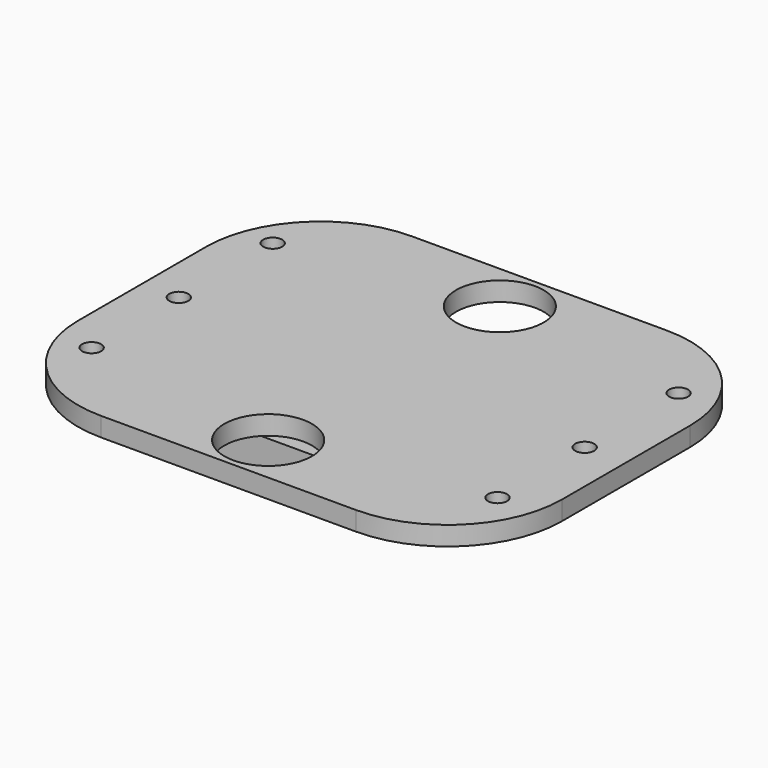
from build123d import *

# Parameters (mm, degrees)
F0_W     = 12.7
F0_H     = 10.2
F0_W_2   = 5
F0_H_2   = 6
F1_DEPTH = 0.5
F2_DEPTH = 1
F3_D     = 0.5
F4_D     = 2.3
F5_R     = 3


with BuildPart() as f1:
    # F0 (on Top) → F1 (new body)
    with BuildSketch(Plane.XY):
        with Locations((6.35, 5.1)):
            Rectangle(F0_W, F0_H)
        with Locations((6.2, 5.1)):
            Rectangle(F0_W_2, F0_H_2, mode=Mode.SUBTRACT)
        with Locations((6.2, 5.1)):
            Rectangle(F0_W_2, F0_H_2)
    extrude(amount=F1_DEPTH)

    # F3 (through all)
    with Locations(Plane(origin=(0, 0, 0), x_dir=(1, 0, 0), z_dir=(0, 0, -1))):
        with Locations((11.6159860045, -2.2403197363), (11.6159860045, -5.1), (11.6159860045, -8.1800576299), (0.9654218447, -8.1800576299), (0.9654218447, -5.1), (0.9654218447, -2.2403197363)):
            Hole(F3_D / 2)

    # F4 (through all)
    with Locations(Plane(origin=(0, 0, 0), x_dir=(1, 0, 0), z_dir=(0, 0, -1))):
        with Locations((6.35, -1.3), (6.35, -8.9)):
            Hole(F4_D / 2)

    # F5
    f5_edges = [f1.edges().sort_by_distance(p)[0] for p in [
        (0, 10.2, 0.25),
        (12.7, 10.2, 0.25),
        (0, 0, 0.25),
        (12.7, 0, 0.25),
    ]]
    fillet(f5_edges, radius=F5_R)


with BuildPart() as f2:
    # F0 (on Top) → F2 (new body)
    with BuildSketch(Plane.XY):
        with Locations((6.2, 5.1)):
            Rectangle(F0_W_2, F0_H_2)
    extrude(amount=-F2_DEPTH)


solid = Compound([f1.part, f2.part])
